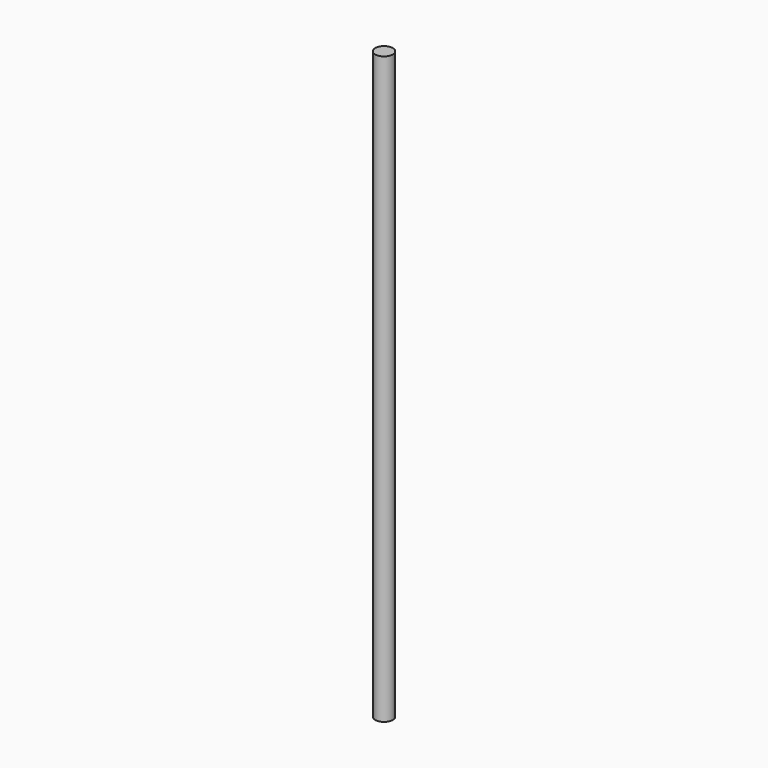
from build123d import *

# Parameters (mm, degrees)
SKETCH_R  = 6
PAD_DEPTH = 400


with BuildPart() as part:
    # Sketch → Pad (new body)
    with BuildSketch(Plane.XY):
        Circle(SKETCH_R)
    extrude(amount=PAD_DEPTH)


solid = part.part
